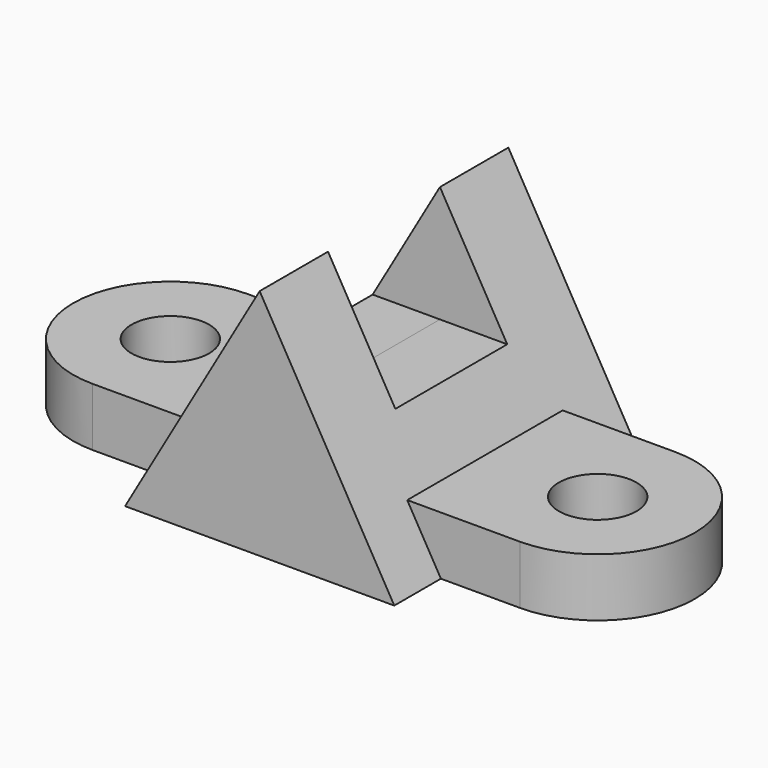
from build123d import *

# Parameters (mm, degrees)
F0_R      = 10
F1_DEPTH  = 15
F3_DEPTH  = 40
F4_DEPTH  = 80
F5_W      = 36
F5_H      = 30.551141
F6_DEPTH  = 25
F6_FACE_W = 36
F6_FACE_H = 30
F7_DEPTH  = 25


with BuildPart() as f1:
    # F0 (on Top) → F1 (new body)
    with BuildSketch(Plane.XY):
        with BuildLine():
            Line((-55, -25), (55, -25))
            ThreePointArc((55, -25), (80, 0), (55, 25))
            Line((55, 25), (-55, 25))
            ThreePointArc((-55, 25), (-80, 0), (-55, -25))
        make_face()
        with Locations((-55, 0)):
            Circle(F0_R, mode=Mode.SUBTRACT)
        with Locations((55, 0)):
            Circle(F0_R, mode=Mode.SUBTRACT)
    extrude(amount=F1_DEPTH)

    # F2 (on Front) → F3 (join)
    with BuildSketch(Plane.XZ):
        Polygon((34.641016, 0), (0, 60), (-34.641016, 0), align=None)
    extrude(amount=F3_DEPTH)

    # F3_face (on face) → F4 (join)
    with BuildSketch(Plane(origin=(0, -40, 20), x_dir=(1, 0, 0), z_dir=(0, -1, 0))):
        Polygon((34.641016, -20), (0, 40), (-34.641016, -20), align=None)
    extrude(amount=-F4_DEPTH)

    # F5 (on Right) → F6 (cut)
    with BuildSketch(Plane.YZ):
        with Locations((0, 45.275571)):
            Rectangle(F5_W, F5_H)
    extrude(amount=F6_DEPTH, mode=Mode.SUBTRACT)

    # F6_face (on face) → F7 (cut)
    with BuildSketch(Plane(origin=(0, 0, 45), x_dir=(0, 1, 0), z_dir=(1, 0, 0))):
        Rectangle(F6_FACE_W, F6_FACE_H)
    extrude(amount=-F7_DEPTH, mode=Mode.SUBTRACT)


solid = f1.part
